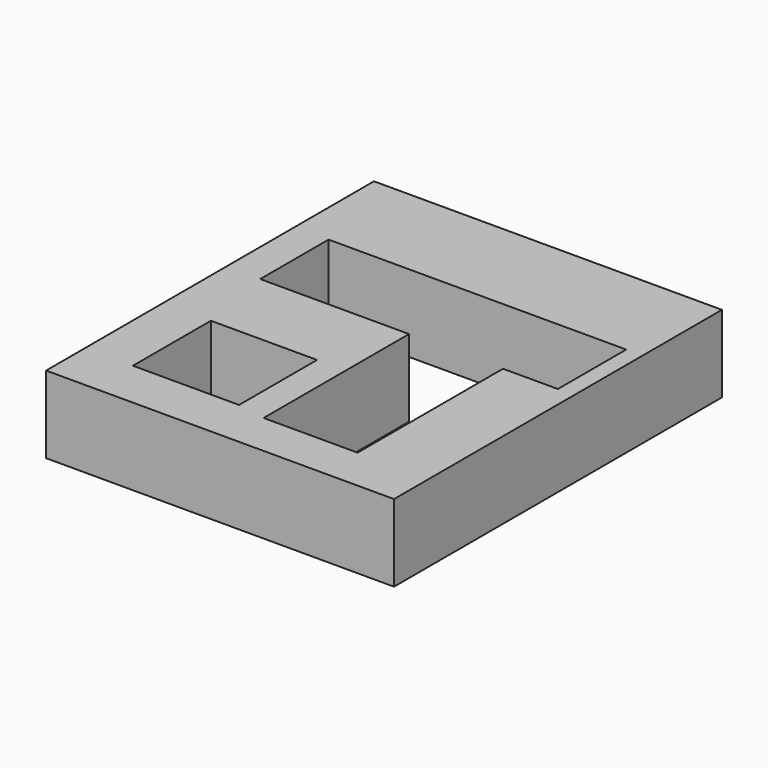
from build123d import *

# Parameters (mm, degrees)
F0_W     = 114.545062
F0_H     = 134.937272
F0_W_2   = 34.949101
F0_H_2   = 32.08442
F1_DEPTH = 25.4


with BuildPart() as f1:
    # F0 (on Top) → F1 (new body)
    with BuildSketch(Plane.XY):
        Rectangle(F0_W, F0_H)
        with Locations((-24.042237, -35.384219)):
            Rectangle(F0_W_2, F0_H_2, mode=Mode.SUBTRACT)
        Polygon((33.824306, -53.145237), (2.885755, -53.145237), (2.885755, 6.695721), (-46.111111, 6.695721), (-46.111111, 34.831312), (51.882621, 34.831312), (51.882621, 6.695721), (33.824306, 6.695721), align=None, mode=Mode.SUBTRACT)
    extrude(amount=F1_DEPTH)


solid = f1.part
